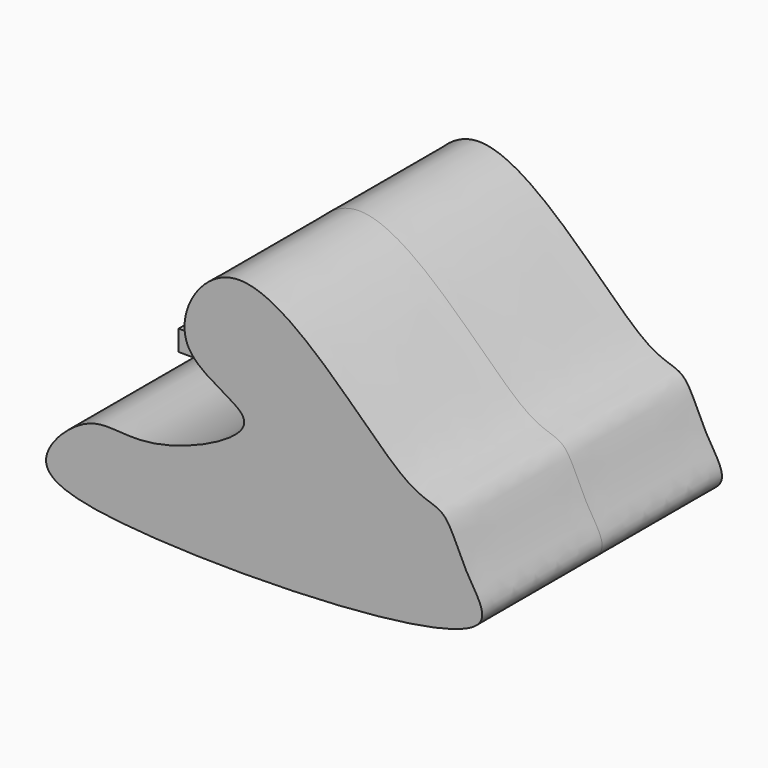
from build123d import *

# Parameters (mm, degrees)
F0_W     = 19.677969384
F0_H     = 18.7743930651
F1_DEPTH = 82.55
F2_DEPTH = 136.652


with BuildPart() as f1:
    # F0 (on Front) → F1 (new body, symmetric)
    with BuildSketch(Plane.XZ):
        with Locations((-93.2715473412, 9.3871965325)):
            Rectangle(F0_W, F0_H)
    extrude(amount=F1_DEPTH, both=True)


with BuildPart() as f2:
    # F0 (on Front) → F2 (new body, symmetric)
    with BuildSketch(Plane.XZ):
        with BuildLine():
            add(Edge.make_bspline(
                [(0, 0), (-1.4129747328, 13.6355814893), (-84.5677055383, 30.881720401), (-2.7607303557, 173.2872957717), (142.6396231891, -14.2375342261), (184.9271293411, -7.6802497535), (199.591835793, -56.7178436547), (255.4694803744, -121.1534721043), (-115.5474660748, -130.8545236816), (-201.2737406539, -96.3975850298), (-138.4533764547, -34.0426596946), (-102.2288922993, -52.3764762447), (-55.1826823001, -38.1780734752), (-41.1240082798, -32.2947778382)],
                knots=[0, 0, 0, 0, 0.0811790214, 0.1697967787, 0.3061791298, 0.3655225363, 0.4325834752, 0.4935504158, 0.6728642987, 0.7551307592, 0.828889619, 0.9042556488, 0.940788334, 0.940788334, 0.940788334, 0.940788334], degree=3))
            add(Edge.make_bspline(
                [(-41.1240082798, -32.2947778382), (-18.3379057005, -22.7592144063), (1.0306183361, -9.9457406982), (0, 0)],
                knots=[0.940788334, 0.940788334, 0.940788334, 0.940788334, 1, 1, 1, 1], degree=3))
        make_face()
    extrude(amount=F2_DEPTH, both=True)


solid = Compound([f1.part, f2.part])
